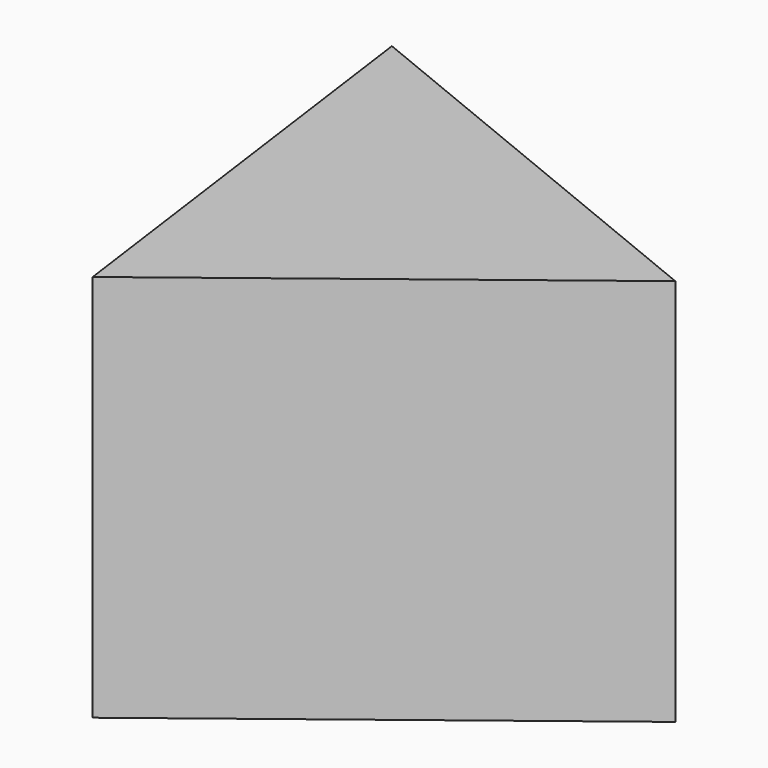
from build123d import *

# Parameters (mm, degrees)
F1_DEPTH = 34.798


with BuildPart() as f1:
    # F0 (on Top) → F1 (new body)
    with BuildSketch(Plane.XY):
        Polygon((-8.915948, -21.807682), (23.34398, 3.182404), (-14.428033, 18.625278), align=None)
    extrude(amount=-F1_DEPTH)


solid = f1.part
